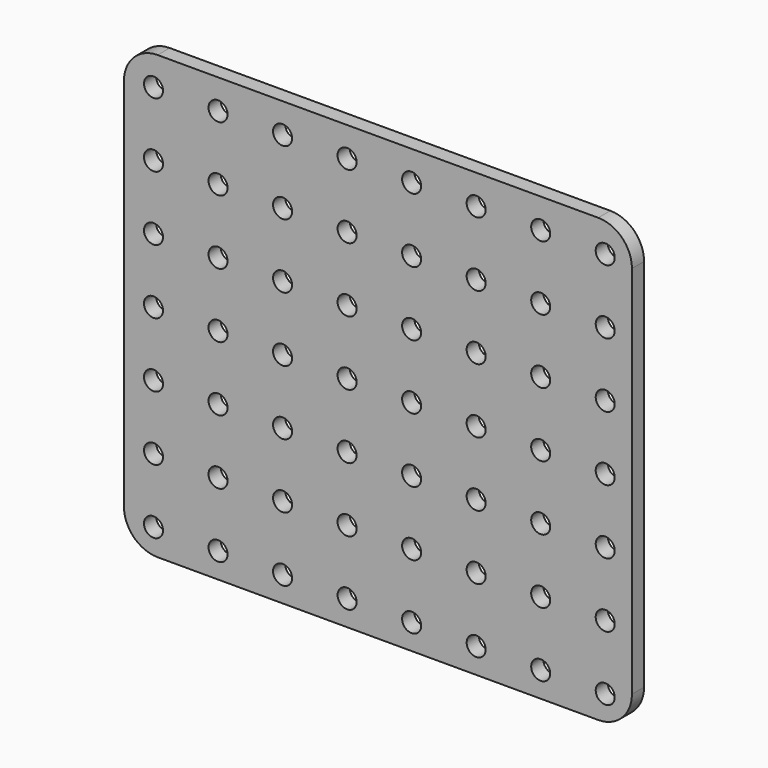
from build123d import *

# Parameters (mm, degrees)
F0_W     = 76.581
F0_H     = 66.6496
F1_DEPTH = 2.286
F2_R     = 1.4351
F3_DEPTH = 2.286
F4_R     = 5.08


with BuildPart() as f1:
    # F0 (on Front) → F1 (new body)
    with BuildSketch(Plane.XZ):
        with Locations((-2.38391, 10.504345)):
            Rectangle(F0_W, F0_H)
    extrude(amount=F1_DEPTH)

    # F2 (on Front) → F3 (cut)
    with BuildSketch(Plane.XZ):
        with Locations((-36.21671, 39.358745)):
            Circle(F2_R)
        with Locations((-36.21671, 29.630545)):
            Circle(F2_R)
        with Locations((-36.21671, 19.902345)):
            Circle(F2_R)
        with Locations((-36.21671, 10.174145)):
            Circle(F2_R)
        with Locations((-36.21671, 0.445945)):
            Circle(F2_R)
        with Locations((-36.21671, -9.282255)):
            Circle(F2_R)
        with Locations((-36.21671, -19.010455)):
            Circle(F2_R)
        with Locations((-26.48851, 39.358745)):
            Circle(F2_R)
        with Locations((-26.48851, 29.630545)):
            Circle(F2_R)
        with Locations((-26.48851, 19.902345)):
            Circle(F2_R)
        with Locations((-26.48851, 10.174145)):
            Circle(F2_R)
        with Locations((-26.48851, 0.445945)):
            Circle(F2_R)
        with Locations((-26.48851, -9.282255)):
            Circle(F2_R)
        with Locations((-26.48851, -19.010455)):
            Circle(F2_R)
        with Locations((-16.76031, 39.358745)):
            Circle(F2_R)
        with Locations((-16.76031, 29.630545)):
            Circle(F2_R)
        with Locations((-16.76031, 19.902345)):
            Circle(F2_R)
        with Locations((-16.76031, 10.174145)):
            Circle(F2_R)
        with Locations((-16.76031, 0.445945)):
            Circle(F2_R)
        with Locations((-16.76031, -9.282255)):
            Circle(F2_R)
        with Locations((-16.76031, -19.010455)):
            Circle(F2_R)
        with Locations((-7.03211, 39.358745)):
            Circle(F2_R)
        with Locations((-7.03211, 29.630545)):
            Circle(F2_R)
        with Locations((-7.03211, 19.902345)):
            Circle(F2_R)
        with Locations((-7.03211, 10.174145)):
            Circle(F2_R)
        with Locations((-7.03211, 0.445945)):
            Circle(F2_R)
        with Locations((-7.03211, -9.282255)):
            Circle(F2_R)
        with Locations((-7.03211, -19.010455)):
            Circle(F2_R)
        with Locations((2.69609, 39.358745)):
            Circle(F2_R)
        with Locations((2.69609, 29.630545)):
            Circle(F2_R)
        with Locations((2.69609, 19.902345)):
            Circle(F2_R)
        with Locations((2.69609, 10.174145)):
            Circle(F2_R)
        with Locations((2.69609, 0.445945)):
            Circle(F2_R)
        with Locations((2.69609, -9.282255)):
            Circle(F2_R)
        with Locations((2.69609, -19.010455)):
            Circle(F2_R)
        with Locations((12.42429, 39.358745)):
            Circle(F2_R)
        with Locations((12.42429, 29.630545)):
            Circle(F2_R)
        with Locations((12.42429, 19.902345)):
            Circle(F2_R)
        with Locations((12.42429, 10.174145)):
            Circle(F2_R)
        with Locations((12.42429, 0.445945)):
            Circle(F2_R)
        with Locations((12.42429, -9.282255)):
            Circle(F2_R)
        with Locations((12.42429, -19.010455)):
            Circle(F2_R)
        with Locations((22.15249, 39.358745)):
            Circle(F2_R)
        with Locations((22.15249, 29.630545)):
            Circle(F2_R)
        with Locations((22.15249, 19.902345)):
            Circle(F2_R)
        with Locations((22.15249, 10.174145)):
            Circle(F2_R)
        with Locations((22.15249, 0.445945)):
            Circle(F2_R)
        with Locations((22.15249, -9.282255)):
            Circle(F2_R)
        with Locations((22.15249, -19.010455)):
            Circle(F2_R)
        with Locations((31.88069, 39.358745)):
            Circle(F2_R)
        with Locations((31.88069, 29.630545)):
            Circle(F2_R)
        with Locations((31.88069, 19.902345)):
            Circle(F2_R)
        with Locations((31.88069, 10.174145)):
            Circle(F2_R)
        with Locations((31.88069, 0.445945)):
            Circle(F2_R)
        with Locations((31.88069, -9.282255)):
            Circle(F2_R)
        with Locations((31.88069, -19.010455)):
            Circle(F2_R)
    extrude(amount=F3_DEPTH, mode=Mode.SUBTRACT)

    # F4
    f4_edges = [f1.edges().sort_by_distance(p)[0] for p in [
        (-40.67441, -1.143, -22.820455),
        (35.90659, -1.143, 43.829145),
        (35.90659, -1.143, -22.820455),
        (-40.67441, -1.143, 43.829145),
    ]]
    fillet(f4_edges, radius=F4_R)


solid = f1.part
